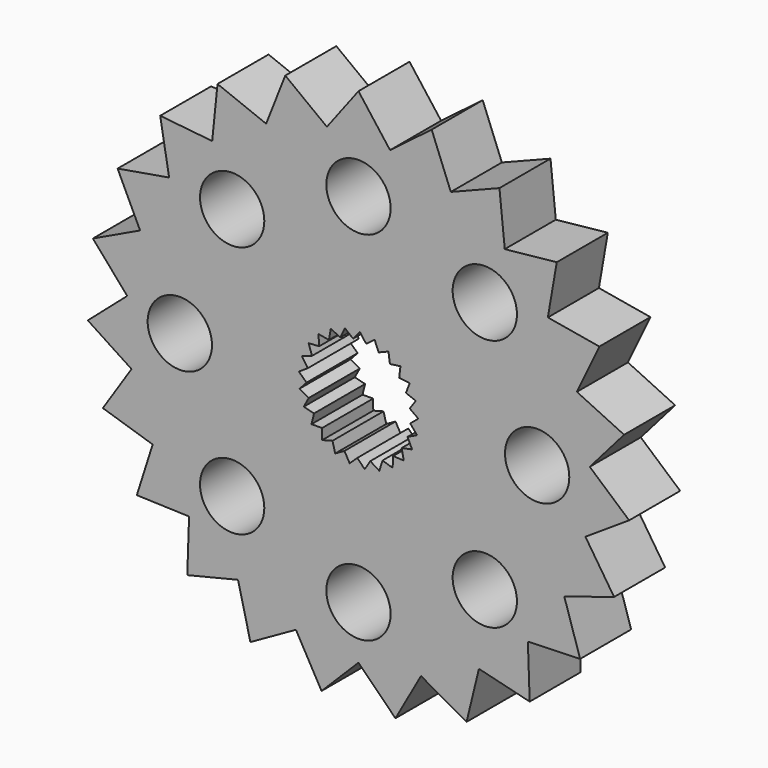
from build123d import *

# Parameters (mm, degrees)
F0_R     = 1.6
F1_DEPTH = 3.175


with BuildPart() as f1:
    # F0 (on Front) → F1 (new body)
    with BuildSketch(Plane.XZ):
        Polygon((1.570599, 11.426958), (0, 13.5), (-1.570599, 11.426958), (-3.642256, 12.999383), (-4.595314, 10.579473), (-7.014383, 11.534662), (-7.279214, 8.947356), (-9.866286, 9.214467), (-9.423249, 6.651656), (-11.98645, 6.210878), (-10.868405, 3.862632), (-13.217635, 2.746656), (-11.507501, 0.787135), (-13.468528, -0.921273), (-11.293138, -2.346741), (-12.720522, -4.520875), (-10.241214, -5.30657), (-11.029094, -7.785184), (-8.429747, -7.872834), (-8.519687, -10.472102), (-5.993084, -9.855207), (-5.378415, -12.382353), (-3.111941, -11.106663), (-1.83825, -13.37426), (0, -11.53439), (1.83825, -13.37426), (3.111941, -11.106663), (5.378415, -12.382353), (5.993084, -9.855207), (8.519687, -10.472102), (8.429747, -7.872834), (11.029094, -7.785184), (10.241214, -5.30657), (12.720522, -4.520875), (11.293138, -2.346741), (13.468528, -0.921273), (11.507501, 0.787135), (13.217635, 2.746656), (10.868405, 3.862632), (11.98645, 6.210878), (9.423249, 6.651656), (9.866286, 9.214467), (7.279214, 8.947356), (7.014383, 11.534662), (4.595314, 10.579473), (3.642256, 12.999383), align=None)
        with Locations((-8.89, 0)):
            Circle(F0_R, mode=Mode.SUBTRACT)
        with Locations((-6.286179, -6.286179)):
            Circle(F0_R, mode=Mode.SUBTRACT)
        with Locations((0, -8.89)):
            Circle(F0_R, mode=Mode.SUBTRACT)
        with Locations((6.286179, -6.286179)):
            Circle(F0_R, mode=Mode.SUBTRACT)
        Polygon((-2.313127, 1.150841), (-2.481189, 1.651718), (-1.954254, 1.689937), (-1.992473, 2.216873), (-1.472587, 2.122848), (-1.378562, 2.642733), (-0.898392, 2.422372), (-0.678031, 2.902541), (-0.267748, 2.56969), (0.065104, 2.979972), (0.37972, 2.555544), (0.804147, 2.87016), (1.003328, 2.380825), (1.492663, 2.580005), (1.563894, 2.056509), (2.08739, 2.12774), (2.026194, 1.602976), (2.550958, 1.54178), (2.361181, 1.048721), (2.85424, 0.858945), (2.547807, 0.428572), (2.97818, 0.122139), (2.574344, -0.218506), (2.914989, -0.622342), (2.439126, -0.851855), (2.668639, -1.327718), (2.150649, -1.431678), (2.254609, -1.949669), (1.727038, -1.921544), (1.698914, -2.449115), (1.194912, -2.290672), (1.036469, -2.794674), (0.587704, -2.515869), (0.308899, -2.964634), (-0.056431, -2.582985), (-0.43808, -2.948314), (-0.69702, -2.487802), (-1.157533, -2.746742), (-1.293813, -2.236301), (-1.804254, -2.372581), (-1.809311, -1.844285), (-2.337607, -1.849342), (-2.211123, -1.336386), (-2.724079, -1.209903), (-2.474002, -0.744517), (-2.939388, -0.494441), (-2.581431, -0.105868), (-2.970004, 0.252089), (-2.526659, 0.539434), (-2.814004, 0.982779), align=None, mode=Mode.SUBTRACT)
        with Locations((8.89, 0)):
            Circle(F0_R, mode=Mode.SUBTRACT)
        with Locations((-6.286179, 6.286179)):
            Circle(F0_R, mode=Mode.SUBTRACT)
        with Locations((6.286179, 6.286179)):
            Circle(F0_R, mode=Mode.SUBTRACT)
        with Locations((0, 8.89)):
            Circle(F0_R, mode=Mode.SUBTRACT)
    extrude(amount=F1_DEPTH)


solid = f1.part
